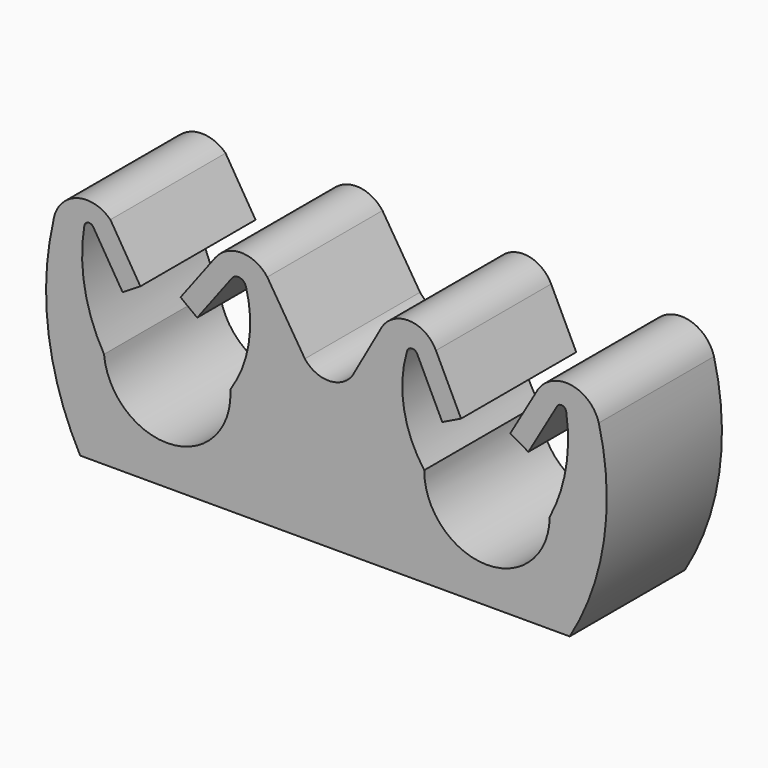
from build123d import *

# Parameters (mm, degrees)
F1_DEPTH = 10


with BuildPart() as f1:
    # F0 (on Front) → F1 (new body)
    with BuildSketch(Plane.XZ):
        with BuildLine():
            ThreePointArc((-26.480538, 0.041752), (-26.80275, -6.984853), (-24.610945, -13.66864))
            Line((-24.610945, -13.66864), (9.389055, -13.66864))
            ThreePointArc((9.389055, -13.66864), (11.76884, -7.015264), (11.409232, 0.041752))
            ThreePointArc((11.409232, 0.041752), (9.53605, 1.729011), (7.207622, 0.762533))
            Line((7.207622, 0.762533), (5.26171, -2.592488))
            Line((5.26171, -2.592488), (6.516005, -3.31998))
            Line((6.516005, -3.31998), (8.512528, 0.122302))
            ThreePointArc((8.512528, 0.122302), (8.872618, 0.286233), (9.145764, 0))
            ThreePointArc((9.145764, 0), (9.12048, -3.50336), (7.994913, -6.821081))
            ThreePointArc((7.994913, -6.821081), (3.623874, -11.160444), (-0.715488, -6.789405))
            ThreePointArc((-0.715488, -6.789405), (-2.12155, -3.515707), (-1.92509, 0.041752))
            ThreePointArc((-1.92509, 0.041752), (-1.611125, 0.372473), (-1.205894, 0.163336))
            Line((-1.205894, 0.163336), (0.535578, -3.437674))
            Line((0.535578, -3.437674), (1.840945, -2.80639))
            Line((1.840945, -2.80639), (0.099355, 0.794863))
            ThreePointArc((0.099355, 0.794863), (-1.83955, 2.01093), (-3.778454, 0.794863))
            Line((-3.778454, 0.794863), (-5.72786, -2.673798))
            ThreePointArc((-5.72786, -2.673798), (-7.366983, -3.479416), (-9.006107, -2.673798))
            Line((-9.006107, -2.673798), (-11.616714, 1.475432))
            ThreePointArc((-11.616714, 1.475432), (-13.425926, 2.377495), (-15.235137, 1.475432))
            Line((-15.235137, 1.475432), (-17.64233, -1.719161))
            Line((-17.64233, -1.719161), (-16.48429, -2.591769))
            Line((-16.48429, -2.591769), (-14.077097, 0.602824))
            ThreePointArc((-14.077097, 0.602824), (-13.524899, 0.812886), (-13.096491, 0.406049))
            ThreePointArc((-13.096491, 0.406049), (-12.908327, -3.030287), (-14.181236, -6.22771))
            Line((-14.181236, -6.22771), (-14.176145, -6.414763))
            ThreePointArc((-14.176145, -6.414763), (-18.316139, -10.926878), (-22.956589, -6.931259))
            ThreePointArc((-22.956589, -6.931259), (-24.297873, -3.334327), (-24.321447, 0.504476))
            ThreePointArc((-24.321447, 0.504476), (-24.044014, 0.761092), (-23.700835, 0.602824))
            Line((-23.700835, 0.602824), (-21.668322, -2.716693))
            Line((-21.668322, -2.716693), (-20.431714, -1.959527))
            Line((-20.431714, -1.959527), (-22.51379, 1.440936))
            ThreePointArc((-22.51379, 1.440936), (-24.932699, 1.976107), (-26.480538, 0.041752))
        make_face()
    extrude(amount=F1_DEPTH)


solid = f1.part
